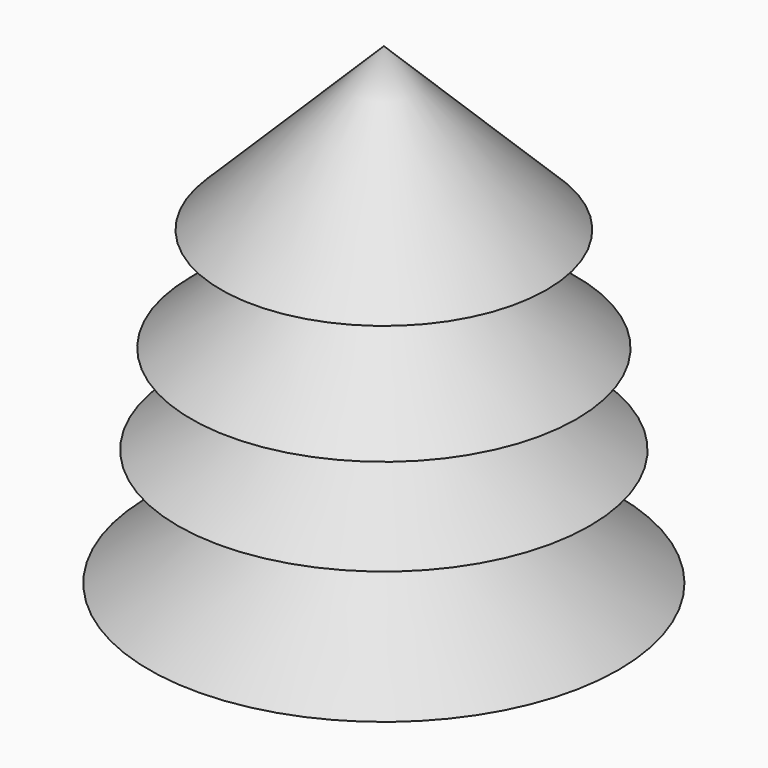
from build123d import *

# Parameters (mm, degrees)
F3_DEPTH = 42.5869689713


with BuildPart() as f1:
    # F0 (on Front) → F1 (revolve)
    with BuildSketch(Plane.XZ):
        Polygon((0, 36.1335463822), (0, -42.5859689713), (39.0832237899, -42.5859689713), (11.798709631, -23.0443552136), (34.2900045216, -23.0443552136), (11.798709631, -8.1116128713), (32.0777408779, -8.1116128713), (11.798709631, 9.2177418992), (27.1001625806, 9.2177418992), align=None)
    revolve(axis=Axis((0, 0, -3.9636306465), (0, 0, -1)))

    # F2 (on Top) → F3 (cut, through all)
    with BuildSketch(Plane.XY):
        Polygon((-17.8824197501, 38.5301597416), (-33.5525795817, 30.0498399884), (-16.0388704389, 16.4075810462), align=None)
    extrude(amount=-F3_DEPTH, mode=Mode.SUBTRACT)


solid = f1.part
